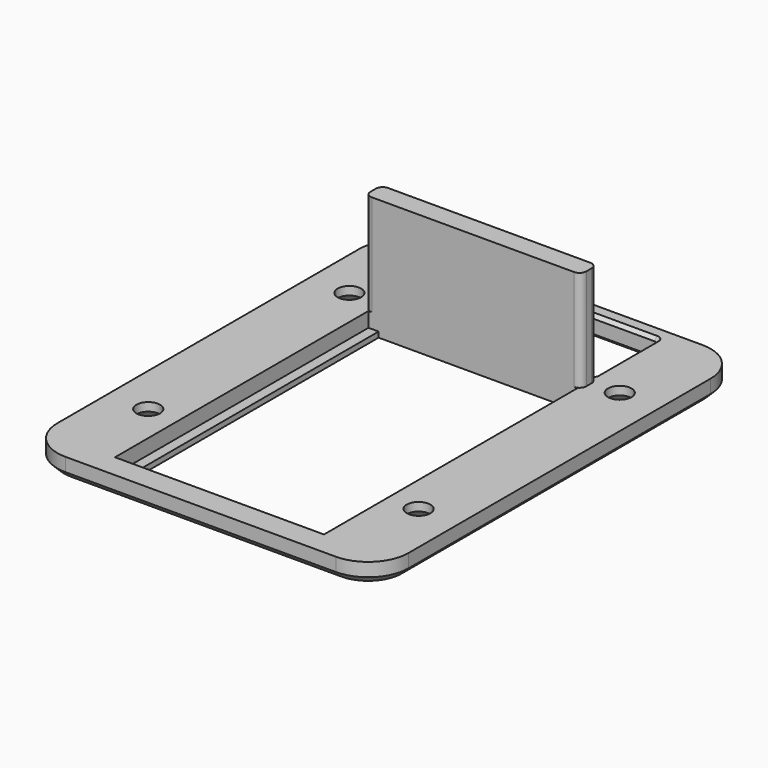
from build123d import *

# Parameters (mm, degrees)
PAD_DEPTH        = 3
HOLE_D           = 3.5
HOLE_CSINK_D     = 7
HOLE_CSINK_ANGLE = 90
CHAMFER_SIZE     = 1
SKETCH002_W      = 31
SKETCH002_H      = 47
POCKET_DEPTH     = 2.2
SKETCH003_W      = 28
SKETCH003_H      = 47
POCKET001_DEPTH  = 3.001
POCKET002_DEPTH  = 3.001
CHAMFER001_SIZE  = 0.5
PAD001_DEPTH     = 15


with BuildPart() as part:
    # Sketch → Pad (new body)
    with BuildSketch(Plane.XY):
        with BuildLine():
            Line((6, 0), (46.1, 0))
            ThreePointArc((46.1, 0), (50.342641, 1.757359), (52.1, 6))
            Line((52.1, 6), (52.1, 62))
            ThreePointArc((52.1, 62), (50.342641, 66.242641), (46.1, 68))
            Line((46.1, 68), (6, 68))
            ThreePointArc((6, 68), (1.757359, 66.242641), (0, 62))
            Line((0, 62), (0, 6))
            ThreePointArc((0, 6), (1.757359, 1.757359), (6, 0))
        make_face()
    extrude(amount=PAD_DEPTH)

    # Hole (through all)
    with Locations(Plane(origin=(0, 0, 0), x_dir=(1, 0, 0), z_dir=(0, 0, -1))):
        with Locations((6, -52.65), (46.1, -52.65), (46.1, -15.35), (6, -15.35)):
            CounterSinkHole(HOLE_D / 2, HOLE_CSINK_D / 2, counter_sink_angle=HOLE_CSINK_ANGLE)

    # Chamfer
    chamfer_edges = [part.edges().sort_by_distance(p)[0] for p in [
        (52.1, 34, 0),
    ]]
    chamfer(chamfer_edges, length=CHAMFER_SIZE)

    # Sketch002 (on DatumPlane) → Pocket (cut)
    with BuildSketch(Plane.XY.offset(3)):
        with Locations((26.05, 27)):
            Rectangle(SKETCH002_W, SKETCH002_H)
    extrude(amount=-POCKET_DEPTH, mode=Mode.SUBTRACT)

    # Sketch003 (on DatumPlane) → Pocket001 (cut, through all)
    with BuildSketch(Plane.XY.offset(3)):
        with Locations((26.05, 27)):
            Rectangle(SKETCH003_W, SKETCH003_H)
    extrude(amount=-POCKET001_DEPTH, mode=Mode.SUBTRACT)

    # Sketch004 (on DatumPlane) → Pocket002 (cut, through all)
    with BuildSketch(Plane.XY.offset(3)):
        with BuildLine():
            Line((11.05, 54.5), (11.05, 65.5))
            ThreePointArc((11.55, 66), (11.196447, 65.853553), (11.05, 65.5))
            Line((11.55, 66), (40.55, 66))
            ThreePointArc((41.05, 65.5), (40.903553, 65.853553), (40.55, 66))
            Line((41.05, 65.5), (41.05, 54.5))
            ThreePointArc((40.55, 54), (40.903553, 54.146447), (41.05, 54.5))
            Line((40.55, 54), (11.55, 54))
            ThreePointArc((11.05, 54.5), (11.196447, 54.146447), (11.55, 54))
        make_face()
    extrude(amount=-POCKET002_DEPTH, mode=Mode.SUBTRACT)

    # Chamfer001
    chamfer001_edges = [part.edges().sort_by_distance(p)[0] for p in [
        (26.05, 54, 0),
        (26.05, 54, 3),
    ]]
    chamfer(chamfer001_edges, length=CHAMFER001_SIZE)

    # Sketch005 (on DatumPlane) → Pad001 (join)
    with BuildSketch(Plane.XY.offset(3)):
        with BuildLine():
            Line((10.05, 52.5), (10.05, 51.5))
            ThreePointArc((10.05, 51.5), (10.342893, 50.792893), (11.05, 50.5))
            Line((11.05, 50.5), (41.05, 50.5))
            ThreePointArc((41.05, 50.5), (41.757107, 50.792893), (42.05, 51.5))
            Line((42.05, 51.5), (42.05, 52.5))
            ThreePointArc((42.05, 52.5), (41.757107, 53.207107), (41.05, 53.5))
            Line((41.05, 53.5), (11.05, 53.5))
            ThreePointArc((11.05, 53.5), (10.342893, 53.207107), (10.05, 52.5))
        make_face()
    extrude(amount=PAD001_DEPTH)


solid = part.part
